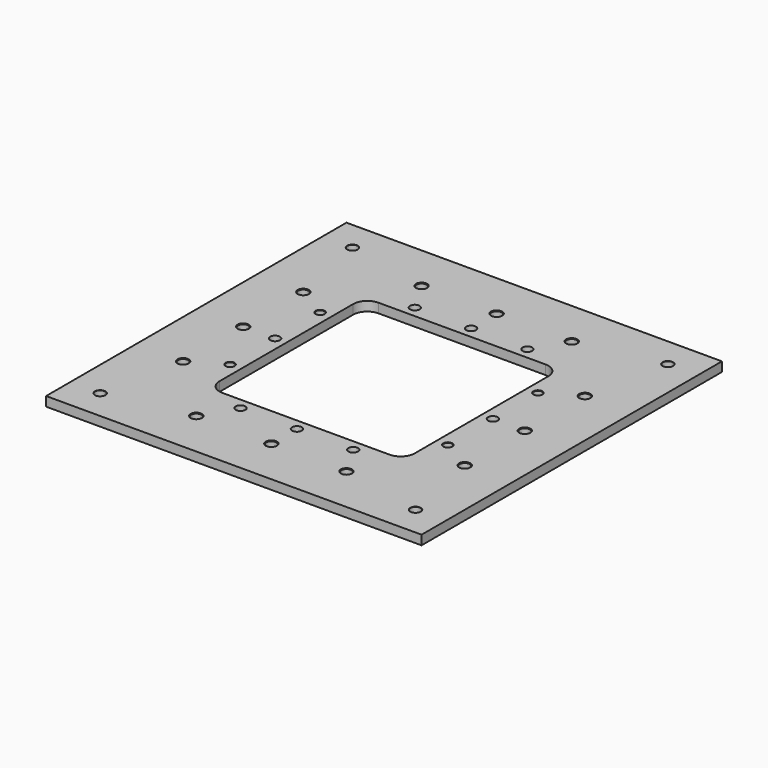
from build123d import *

# Parameters (mm, degrees)
F0_W           = 127
F0_H           = 127
F1_DEPTH       = 3.175
F3_D           = 3.4544
F3_CSINK_D     = 3.556
F3_CSINK_ANGLE = 82
F4_D           = 3.4544
F4_CSINK_D     = 3.81
F4_CSINK_ANGLE = 82
F5_D           = 2.8448
F5_CSINK_D     = 3.048
F5_CSINK_ANGLE = 82
F6_D           = 3.2639


with BuildPart() as f1:
    # F0 (on Top) → F1 (new body)
    with BuildSketch(Plane.XY):
        Rectangle(F0_W, F0_H)
        with BuildLine():
            Line((-28.2575, 33.02), (28.2575, 33.02))
            ThreePointArc((28.2575, 33.02), (31.6250960454, 31.6250960454), (33.02, 28.2575))
            Line((33.02, 28.2575), (33.02, -28.2575))
            ThreePointArc((33.02, -28.2575), (31.6250960454, -31.6250960454), (28.2575, -33.02))
            Line((28.2575, -33.02), (-28.2575, -33.02))
            ThreePointArc((-28.2575, -33.02), (-31.6250960454, -31.6250960454), (-33.02, -28.2575))
            Line((-33.02, -28.2575), (-33.02, 28.2575))
            ThreePointArc((-33.02, 28.2575), (-31.6250960454, 31.6250960454), (-28.2575, 33.02))
        make_face(mode=Mode.SUBTRACT)
    extrude(amount=F1_DEPTH)

    # F3 (through all)
    with Locations(Plane.XY.offset(3.175)):
        with Locations((-53.34, 53.34), (53.34, 53.34), (53.34, -53.34), (-53.34, -53.34)):
            CounterSinkHole(F3_D / 2, F3_CSINK_D / 2, counter_sink_angle=F3_CSINK_ANGLE)

    # F4 (through all)
    with Locations(Plane.XY.offset(3.175)):
        with Locations((-25.4, 47.625), (0, 47.625), (25.4, 47.625), (-47.625, 25.4), (-47.625, 0), (-47.625, -25.4), (-25.4, -47.625), (0, -47.625), (25.4, -47.625), (47.625, -25.4), (47.625, 0), (47.625, 25.4)):
            CounterSinkHole(F4_D / 2, F4_CSINK_D / 2, counter_sink_angle=F4_CSINK_ANGLE)

    # F5 (through all)
    with Locations(Plane.XY.offset(3.175)):
        with Locations((-36.83, 19.05), (-36.83, -19.05), (36.83, 19.05), (36.83, -19.05)):
            CounterSinkHole(F5_D / 2, F5_CSINK_D / 2, counter_sink_angle=F5_CSINK_ANGLE)

    # F6 (through all)
    with Locations(Plane.XY.offset(3.175)):
        with Locations((-36.83, 0), (-19.05, 36.83), (0, 36.83), (19.05, 36.83), (36.83, 0), (19.05, -36.83), (0, -36.83), (-19.05, -36.83)):
            Hole(F6_D / 2)


solid = f1.part
